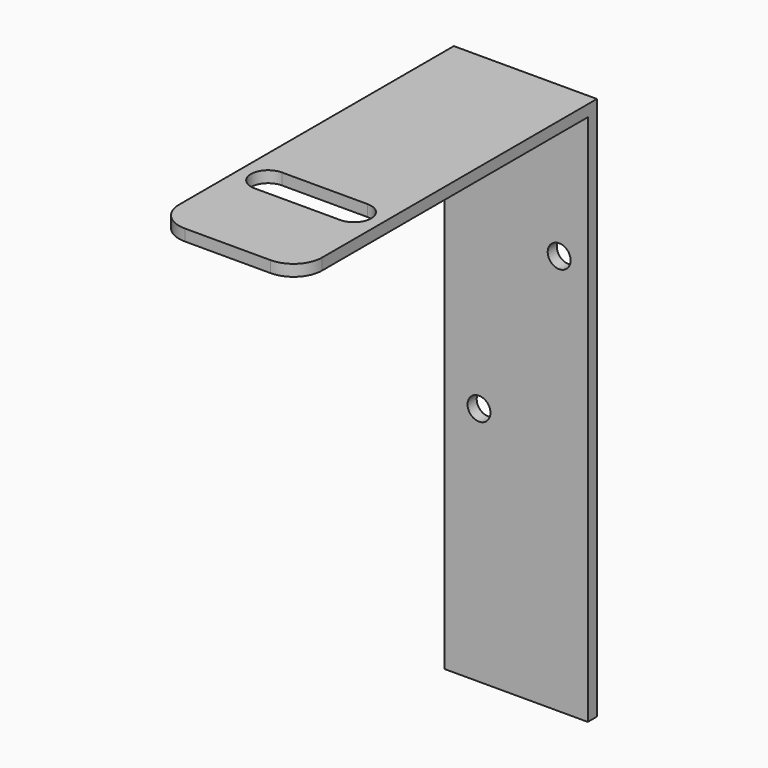
from build123d import *

# Parameters (mm, degrees)
F0_W      = 25
F0_H      = 90
F1_DEPTH  = 2
F2_R      = 2
F3_DEPTH  = 25
F4_W      = 25
F4_H      = 5
F5_DEPTH  = 2
F6_W      = 25
F6_H      = 2
F7_DEPTH  = 63
F8_R      = 5
F10_DEPTH = 25


with BuildPart() as f1:
    # F0 (on Front) → F1 (new body)
    with BuildSketch(Plane.XZ):
        Rectangle(F0_W, F0_H)
    extrude(amount=F1_DEPTH)

    # F2 (on face) → F3 (cut)
    with BuildSketch(Plane.XZ.offset(2)):
        with Locations((7.5, 25)):
            Circle(F2_R)
        with Locations((-6.5, -3)):
            Circle(F2_R)
    extrude(amount=-F3_DEPTH, mode=Mode.SUBTRACT)

    # F4 (on face) → F5 (join)
    with BuildSketch(Plane.XZ.offset(2)):
        with Locations((0, 47.5)):
            Rectangle(F4_W, F4_H)
    extrude(amount=-F5_DEPTH)

    # F6 (on face) → F7 (join)
    with BuildSketch(Plane.XZ.offset(2)):
        with Locations((0, 49)):
            Rectangle(F6_W, F6_H)
    extrude(amount=F7_DEPTH)

    # F8
    f8_edges = [f1.edges().sort_by_distance(p)[0] for p in [
        (-12.5, -65, 49),
        (12.5, -65, 49),
    ]]
    fillet(f8_edges, radius=F8_R)

    # F9 (on face) → F10 (cut)
    with BuildSketch(Plane.XY.offset(50)):
        with BuildLine():
            Line((-7.5, -49.8), (7.5, -49.8))
            ThreePointArc((7.5, -49.8), (10.5, -46.8), (7.5, -43.8))
            Line((7.5, -43.8), (-7.5, -43.8))
            ThreePointArc((-7.5, -43.8), (-10.5, -46.8), (-7.5, -49.8))
        make_face()
    extrude(amount=-F10_DEPTH, mode=Mode.SUBTRACT)


solid = f1.part
